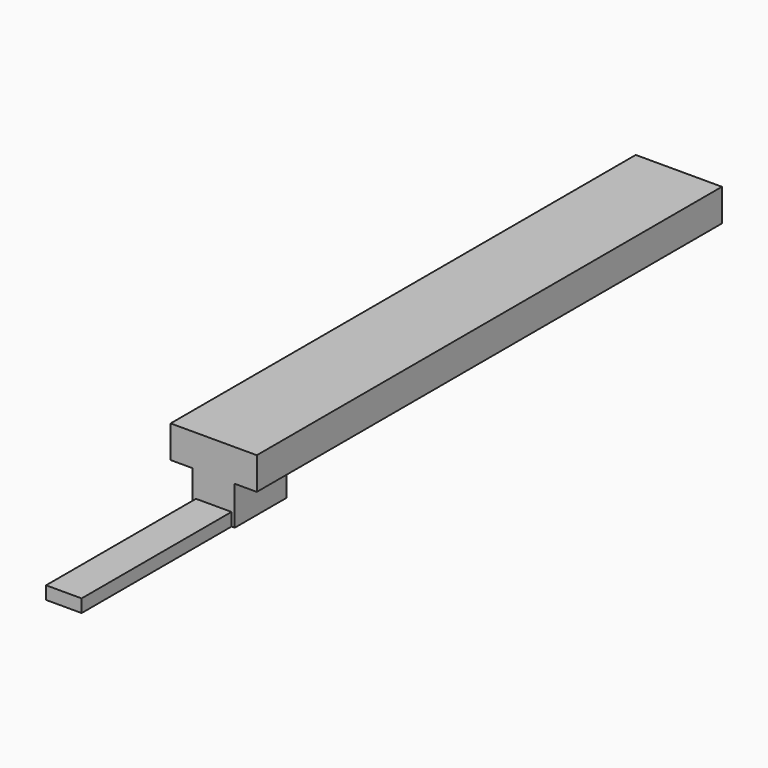
from build123d import *

# Parameters (mm, degrees)
SKETCH_W     = 13.34
SKETCH_H     = 90
PAD_DEPTH    = 5
SKETCH001_W  = 6.5
SKETCH001_H  = 10
PAD001_DEPTH = 6
SKETCH002_W  = 5.5
SKETCH002_H  = 2
PAD002_DEPTH = 29


with BuildPart() as part:
    # Sketch → Pad (new body)
    with BuildSketch(Plane.XY):
        with Locations((0, 45)):
            Rectangle(SKETCH_W, SKETCH_H)
    extrude(amount=PAD_DEPTH)

    # Sketch001 (on Face5 of Pad) → Pad001 (join)
    with BuildSketch(Plane(origin=(0, 0, 0), x_dir=(1, 0, 0), z_dir=(0, 0, -1))):
        with Locations((0, -5)):
            Rectangle(SKETCH001_W, SKETCH001_H)
    extrude(amount=PAD001_DEPTH)

    # Sketch002 (on Face5 of Pad001) → Pad002 (join)
    with BuildSketch(Plane.XZ):
        with Locations((0, -5)):
            Rectangle(SKETCH002_W, SKETCH002_H)
    extrude(amount=PAD002_DEPTH)


solid = part.part
